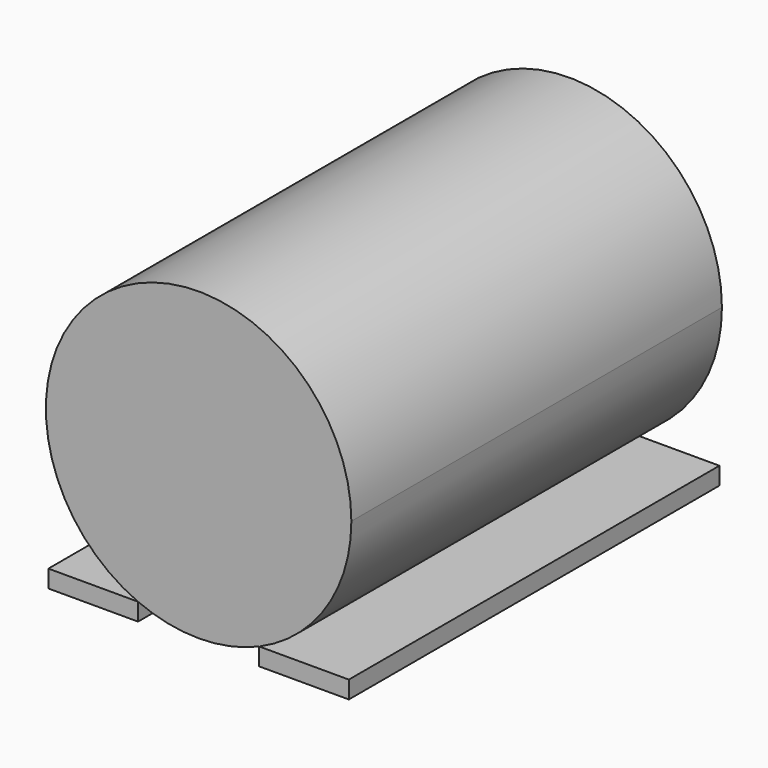
from build123d import *

# Parameters (mm, degrees)
F0_W     = 35.813227
F0_H     = 7
F1_DEPTH = 185
F2_R     = 5.5
F3_DEPTH = 23


with BuildPart() as f1:
    # F0 (on Front) → F1 (new body)
    with BuildSketch(Plane.XZ):
        with BuildLine():
            ThreePointArc((24.186773, -56), (50.972508, -33.508259), (61, 0))
            ThreePointArc((61, 0), (-33.508259, 50.972508), (-24.186773, -56))
            ThreePointArc((-24.186773, -56), (0, -61), (24.186773, -56))
        make_face()
        with Locations((42.093387, -59.5)):
            Rectangle(F0_W, F0_H)
        with Locations((-42.093387, -59.5)):
            Rectangle(F0_W, F0_H)
    extrude(amount=F1_DEPTH)

    # F2 (on face) → F3 (join)
    with BuildSketch(Plane(origin=(0, 0, 0), x_dir=(-1, 0, 0), z_dir=(0, 1, 0))):
        Circle(F2_R)
    extrude(amount=F3_DEPTH)


solid = f1.part
